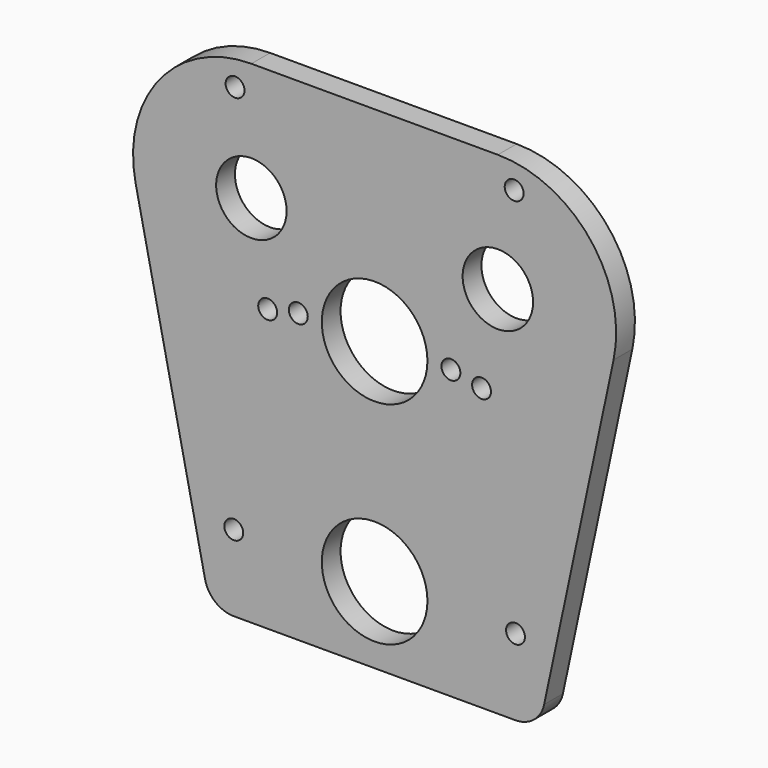
from build123d import *

# Parameters (mm, degrees)
F0_R     = 2.5527
F0_R_2   = 14.2875
F0_R_3   = 9.525
F1_DEPTH = 6.35


with BuildPart() as f1:
    # F0 (on Front) → F1 (new body)
    with BuildSketch(Plane.XZ):
        with BuildLine():
            Line((33.3375, 110.878932), (-33.3375, 110.878932))
            ThreePointArc((-33.3375, 110.878932), (-58.213582, 99.010387), (-64.63929, 72.20755))
            Line((-64.63929, 72.20755), (-45.863341, -15.941116))
            ThreePointArc((-45.863341, -15.941116), (-43.093913, -20.457163), (-38.1, -22.225))
            Line((-38.1, -22.225), (38.1, -22.225))
            ThreePointArc((38.1, -22.225), (43.093913, -20.457163), (45.863341, -15.941116))
            Line((45.863341, -15.941116), (64.63929, 72.20755))
            ThreePointArc((64.63929, 72.20755), (58.213582, 99.010387), (33.3375, 110.878932))
        make_face()
        with Locations((-38.1, -1.5875)):
            Circle(F0_R, mode=Mode.SUBTRACT)
        with Locations((0, -1.5875)):
            Circle(F0_R_2, mode=Mode.SUBTRACT)
        with Locations((38.1127, -1.5875)):
            Circle(F0_R, mode=Mode.SUBTRACT)
        with Locations((-28.926836, 53.860815)):
            Circle(F0_R, mode=Mode.SUBTRACT)
        with Locations((-20.6375, 55.5879)):
            Circle(F0_R, mode=Mode.SUBTRACT)
        with Locations((-33.3375, 78.874932)):
            Circle(F0_R_3, mode=Mode.SUBTRACT)
        with Locations((-37.748164, 103.889049)):
            Circle(F0_R, mode=Mode.SUBTRACT)
        with Locations((0, 55.5879)):
            Circle(F0_R_2, mode=Mode.SUBTRACT)
        with Locations((20.6375, 55.5879)):
            Circle(F0_R, mode=Mode.SUBTRACT)
        with Locations((28.926836, 53.860815)):
            Circle(F0_R, mode=Mode.SUBTRACT)
        with Locations((33.3375, 78.874932)):
            Circle(F0_R_3, mode=Mode.SUBTRACT)
        with Locations((37.748164, 103.889049)):
            Circle(F0_R, mode=Mode.SUBTRACT)
    extrude(amount=F1_DEPTH)


solid = f1.part
